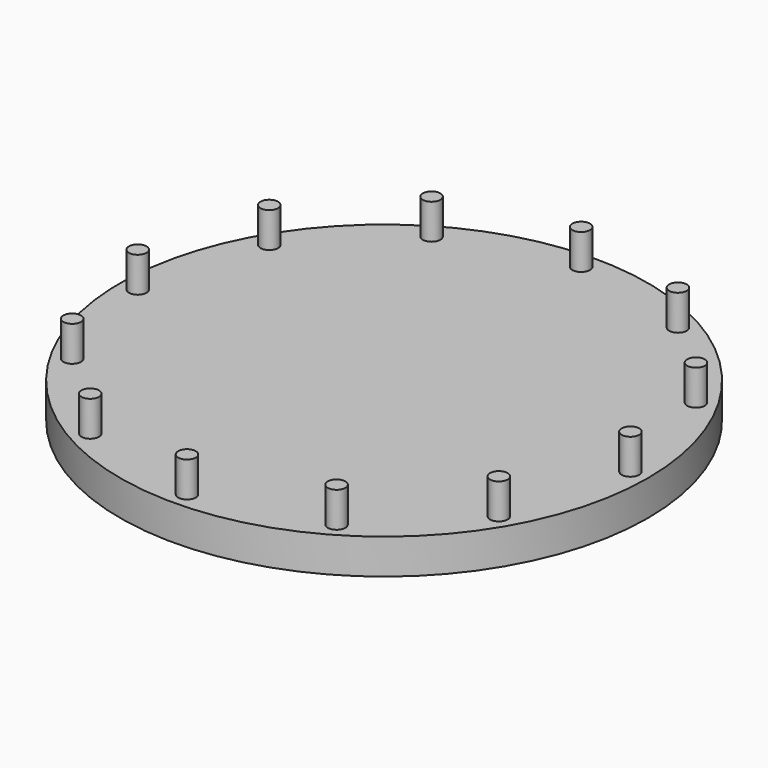
from build123d import *

# Parameters (mm, degrees)
F0_R     = 15
F1_DEPTH = 2
F2_R     = 0.5
F3_DEPTH = 2


with BuildPart() as f1:
    # F0 (on Top) → F1 (new body)
    with BuildSketch(Plane.XY):
        Circle(F0_R)
    extrude(amount=F1_DEPTH)

    # F2 (on face) → F3 (join)
    with BuildSketch(Plane.XY.offset(2)):
        with Locations((0, 14)):
            Circle(F2_R)
        with Locations((7, 12.124356)):
            Circle(F2_R)
        with Locations((12.124356, 7)):
            Circle(F2_R)
        with Locations((14, 0)):
            Circle(F2_R)
        with Locations((12.124356, -7)):
            Circle(F2_R)
        with Locations((7, -12.124356)):
            Circle(F2_R)
        with Locations((0, -14)):
            Circle(F2_R)
        with Locations((-7, -12.124356)):
            Circle(F2_R)
        with Locations((-12.124356, -7)):
            Circle(F2_R)
        with Locations((-14, 0)):
            Circle(F2_R)
        with Locations((-12.124356, 7)):
            Circle(F2_R)
        with Locations((-7, 12.124356)):
            Circle(F2_R)
    extrude(amount=F3_DEPTH)


solid = f1.part
